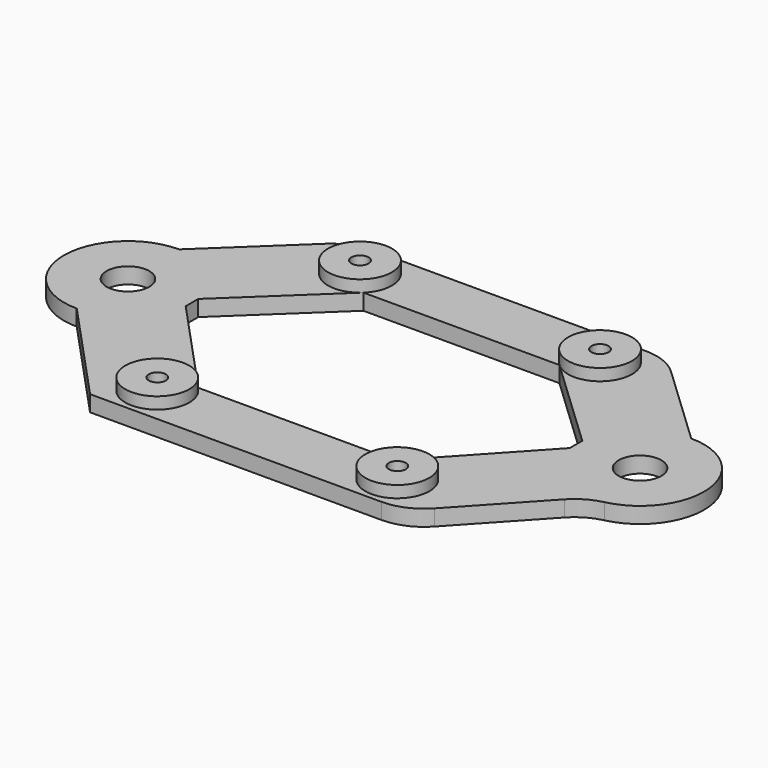
from build123d import *

# Parameters (mm, degrees)
SKETCH_R        = 4
PAD_DEPTH       = 3
SKETCH002_R     = 6
PAD001_DEPTH    = 3
SKETCH001_R     = 4
POCKET_DEPTH    = 3
SKETCH003_R     = 1.6
POCKET001_DEPTH = 5.201
FILLET_R        = 10
FILLET001_R     = 10


with BuildPart() as part:
    # Sketch → Pad (new body)
    with BuildSketch(Plane.XY):
        with BuildLine():
            ThreePointArc((0, 12), (-12, 0), (0, -12))
            Line((0, -12), (18.5, -32))
            Line((77.5, -32), (18.5, -32))
            Line((96, -12), (77.5, -32))
            ThreePointArc((96, -12), (108, 0), (96, 12))
            Line((77.5, 29.5), (96, 12))
            Line((18.5, 29.5), (77.5, 29.5))
            Line((18.5, 29.5), (0, 12))
        make_face()
        Circle(SKETCH_R, mode=Mode.SUBTRACT)
        with Locations((96, 0)):
            Circle(SKETCH_R, mode=Mode.SUBTRACT)
        Polygon((66.376801, -20.522703), (84, -1.470596), (84, 1.470596), (66.376801, 18.141189), (29.623199, 18.141189), (12, 1.470596), (12, -1.470596), (29.623199, -20.522703), align=None, mode=Mode.SUBTRACT)
    extrude(amount=PAD_DEPTH)

    # Sketch002 → Pad001 (join)
    with BuildSketch(Plane.XY.offset(2.2)):
        with Locations((25.5, -25)):
            Circle(SKETCH002_R)
        with Locations((70.5, -25)):
            Circle(SKETCH002_R)
        with Locations((25.5, 22.5)):
            Circle(SKETCH002_R)
        with Locations((70.5, 22.5)):
            Circle(SKETCH002_R)
    extrude(amount=PAD001_DEPTH)

    # Sketch001 → Pocket (cut)
    with BuildSketch(Plane.XY):
        with Locations((25.5, -25)):
            Circle(SKETCH001_R)
        with Locations((70.5, -25)):
            Circle(SKETCH001_R)
        with Locations((25.5, 22.5)):
            Circle(SKETCH001_R)
        with Locations((70.5, 22.5)):
            Circle(SKETCH001_R)
    extrude(amount=POCKET_DEPTH, mode=Mode.SUBTRACT)

    # Sketch003 → Pocket001 (cut, through all)
    with BuildSketch(Plane.XY):
        with Locations((25.5, -25)):
            Circle(SKETCH003_R)
        with Locations((70.5, -25)):
            Circle(SKETCH003_R)
        with Locations((25.5, 22.5)):
            Circle(SKETCH003_R)
        with Locations((70.5, 22.5)):
            Circle(SKETCH003_R)
    extrude(amount=POCKET001_DEPTH, mode=Mode.SUBTRACT)

    # Fillet
    fillet_edges = [part.edges().sort_by_distance(p)[0] for p in [
        (77.5, 29.5, 1.5),
        (18.5, 29.5, 1.5),
    ]]
    fillet(fillet_edges, radius=FILLET_R)

    # Fillet001
    fillet001_edges = [part.edges().sort_by_distance(p)[0] for p in [
        (77.5, -32, 1.5),
        (96, -12, 1.5),
    ]]
    fillet(fillet001_edges, radius=FILLET001_R)


solid = part.part
